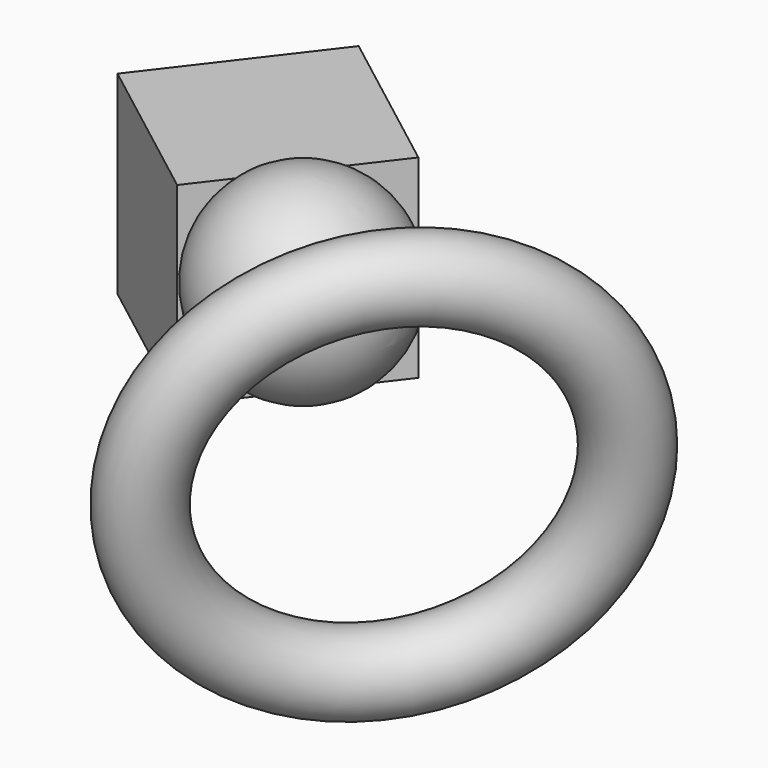
from build123d import *

# Parameters (mm, degrees)
BOX_W                 = 10
BOX_H                 = 10
BOX_DEPTH             = 10
BOX_PLACEMENT_ANGLE   = 52.557929
TORUS_R               = 2
TORUS_ROLL_ANGLE      = 77.563666
TORUS_PITCH_ANGLE     = 32.96499
TORUS_PLACEMENT_ANGLE = -136.802116


with BuildPart() as cube:
    # Box → Box (new body)
    with BuildSketch(Plane.XY):
        with Locations((5, 5)):
            Rectangle(BOX_W, BOX_H)
    extrude(amount=BOX_DEPTH)


with BuildPart() as cube_1:
    # Box placement: moved
    add(cube.part.moved(Location((-8.431028, 5.611803, 0))).rotate(Axis((-8.431028, 5.611803, 0), (0, 0, 1)), BOX_PLACEMENT_ANGLE))


with BuildPart() as sphere:
    # Sphere → Sphere (revolve)
    with BuildSketch(Plane(origin=(-3.802118, 7.939847, 6.15636), x_dir=(1, 0, 0), z_dir=(0, -1, 0))):
        with BuildLine():
            ThreePointArc((0, -5), (5, 0), (0, 5))
            Line((0, 5), (0, -5))
        make_face()
    revolve(axis=Axis((-3.802118, 7.939847, 6.15636), (0, 0, 1)))


with BuildPart() as torus:
    # Torus → Torus (revolve)
    with BuildSketch(Plane.XZ):
        with Locations((10, 0)):
            Circle(TORUS_R)
    revolve(axis=Axis((0, 0, 0), (0, 0, 1)))


with BuildPart() as torus_1:
    # Torus roll: moved
    add(torus.part.rotate(Axis((0, 0, 0), (1, 0, 0)), TORUS_ROLL_ANGLE))


with BuildPart() as torus_2:
    # Torus pitch: moved
    add(torus_1.part.rotate(Axis((0, 0, 0), (0, 1, 0)), TORUS_PITCH_ANGLE))


with BuildPart() as torus_3:
    # Torus placement: moved
    add(torus_2.part.moved(Location((1.814832, 6.118395, -0.013502))).rotate(Axis((1.814832, 6.118395, -0.013502), (0, 0, 1)), TORUS_PLACEMENT_ANGLE))


solid = Compound([cube_1.part, sphere.part, torus_3.part])
